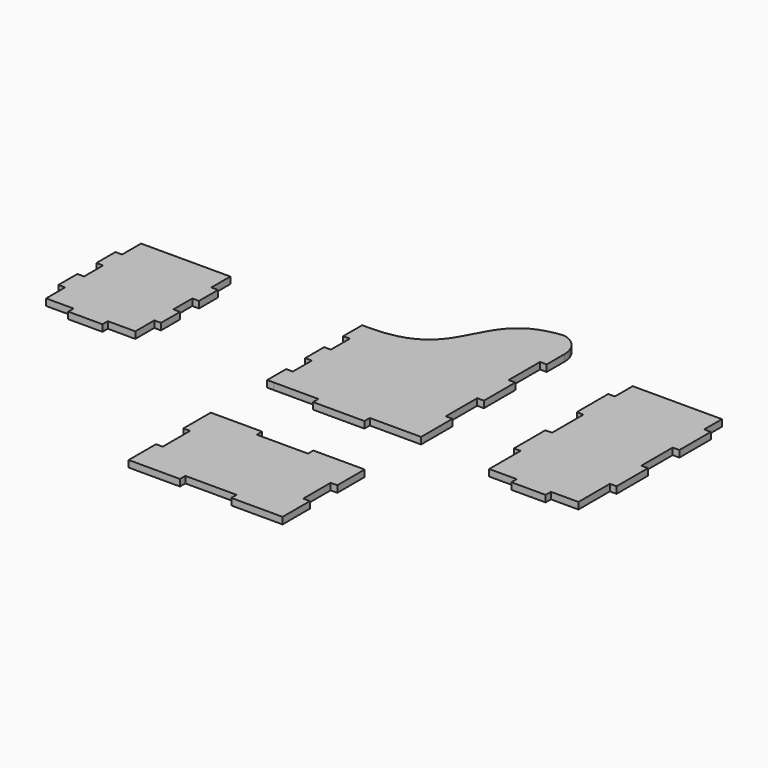
from build123d import *

# Parameters (mm, degrees)
F0_W     = 3
F0_H     = 17.6
F0_H_2   = 10.645371
F0_H_3   = 10.64537
F0_W_2   = 15.333334
F0_H_4   = 3
F0_W_3   = 23
F1_DEPTH = 3


with BuildPart() as f1:
    # F0 (on Top) → F1 (new body)
    with BuildSketch(Plane.XY):
        with Locations((71.255033, 18.631006)):
            Rectangle(F0_W, F0_H)
        with Locations((71.255033, -16.568994)):
            Rectangle(F0_W, F0_H)
        Polygon((-50.056124, -73.496176), (-70.056124, -73.496176), (-70.056124, -85.829509), (-70.056124, -101.162842), (-70.056124, -113.496176), (-50.056124, -113.496176), (-27.056124, -113.496176), (-7.056124, -113.496176), (-7.056124, -101.162842), (-7.056124, -85.829509), (-7.056124, -73.496176), (-27.056124, -73.496176), align=None)
        Polygon((-132.160997, 14.347353), (-172.160997, 14.347353), (-172.160997, 3.701983), (-172.160997, -6.943388), (-172.160997, -17.588759), (-172.160997, -28.234129), (-172.160997, -38.8795), (-159.827664, -38.8795), (-144.49433, -38.8795), (-132.160997, -38.8795), (-132.160997, -28.234129), (-132.160997, -17.588759), (-132.160997, -6.943388), (-132.160997, 3.701983), align=None)
        Polygon((-7.056124, -113.496176), (-27.056124, -113.496176), (-27.056124, -116.496176), (-4.056124, -116.496176), (-4.056124, -101.162842), (-7.056124, -101.162842), align=None)
        with Locations((-130.660997, -1.620702)):
            Rectangle(F0_W, F0_H_2)
        with Locations((-130.660997, -22.911444)):
            Rectangle(F0_W, F0_H_3)
        with Locations((49.755033, -44.468994)):
            Rectangle(F0_W_2, F0_H_4)
        with Locations((-71.556124, 9.024668)):
            Rectangle(F0_W, F0_H_3)
        with Locations((-71.556124, -12.266073)):
            Rectangle(F0_W, F0_H_2)
        with Locations((-71.556124, -33.556815)):
            Rectangle(F0_W, F0_H_2)
        with Locations((-38.556124, -40.3795)):
            Rectangle(F0_W_3, F0_H_4)
        with Locations((-5.556124, -30.0795)):
            Rectangle(F0_W, F0_H)
        with Locations((-5.556124, 5.1205)):
            Rectangle(F0_W, F0_H)
        with BuildLine():
            ThreePointArc((-4.056124, 41.507353), (-4.833177, 45.598808), (-7.056124, 49.1205))
            Line((-7.056124, 49.1205), (-7.056124, 31.5205))
            Line((-7.056124, 31.5205), (-4.056124, 31.5205))
            Line((-4.056124, 31.5205), (-4.056124, 41.507353))
        make_face()
        with Locations((-173.660997, -1.620702)):
            Rectangle(F0_W, F0_H_2)
        with Locations((-173.660997, -22.911444)):
            Rectangle(F0_W, F0_H_3)
        with Locations((-152.160997, -40.3795)):
            Rectangle(F0_W_2, F0_H_4)
        Polygon((-70.056124, -85.829509), (-70.056124, -73.496176), (-50.056124, -73.496176), (-50.056124, -70.496176), (-73.056124, -70.496176), (-73.056124, -85.829509), align=None)
        Polygon((-70.056124, -113.496176), (-70.056124, -101.162842), (-73.056124, -101.162842), (-73.056124, -116.496176), (-50.056124, -116.496176), (-50.056124, -113.496176), align=None)
        Polygon((-27.056124, -70.496176), (-27.056124, -73.496176), (-7.056124, -73.496176), (-7.056124, -85.829509), (-4.056124, -85.829509), (-4.056124, -70.496176), align=None)
        Polygon((69.755033, 37.417859), (29.755033, 37.417859), (29.755033, 27.431006), (29.755033, 9.831006), (29.755033, -7.768994), (29.755033, -25.368994), (29.755033, -42.968994), (42.088366, -42.968994), (57.4217, -42.968994), (69.755033, -42.968994), (69.755033, -25.368994), (69.755033, -7.768994), (69.755033, 9.831006), (69.755033, 27.431006), align=None)
        with Locations((28.255033, 18.631006)):
            Rectangle(F0_W, F0_H)
        with BuildLine():
            add(Edge.make_bspline(
                [(-70.056124, 14.347353), (-29.12855, 14.347353), (-47.992418, 49.062627), (-12.828256, 52.408898)],
                knots=[0, 0, 0, 0, 70.184964, 70.184964, 70.184964, 70.184964], degree=3))
            Line((-70.056124, 14.347353), (-70.056124, 3.701983))
            Line((-70.056124, 3.701983), (-70.056124, -6.943388))
            Line((-70.056124, -6.943388), (-70.056124, -17.588759))
            Line((-70.056124, -17.588759), (-70.056124, -28.234129))
            Line((-70.056124, -28.234129), (-70.056124, -38.8795))
            Line((-70.056124, -38.8795), (-50.056124, -38.8795))
            Line((-50.056124, -38.8795), (-27.056124, -38.8795))
            Line((-27.056124, -38.8795), (-7.056124, -38.8795))
            Line((-7.056124, -38.8795), (-7.056124, -21.2795))
            Line((-7.056124, -21.2795), (-7.056124, -3.6795))
            Line((-7.056124, -3.6795), (-7.056124, 13.9205))
            Line((-7.056124, 13.9205), (-7.056124, 31.5205))
            Line((-7.056124, 31.5205), (-7.056124, 49.1205))
            ThreePointArc((-7.056124, 49.1205), (-9.691835, 51.204148), (-12.828256, 52.408898))
        make_face()
        with Locations((28.255033, -16.568994)):
            Rectangle(F0_W, F0_H)
    extrude(amount=F1_DEPTH)


solid = f1.part
